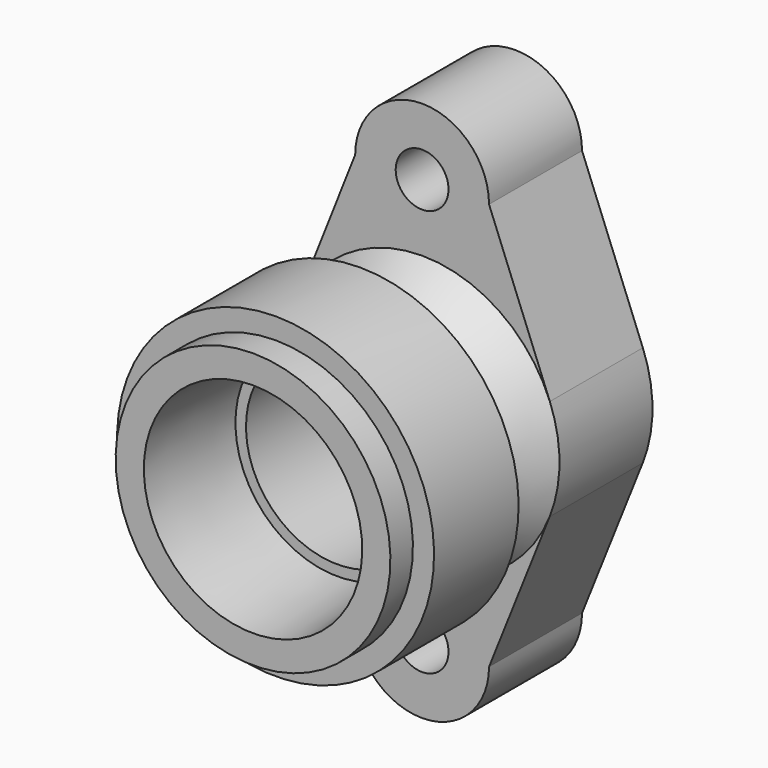
from build123d import *

# Parameters (mm, degrees)
F2_R     = 7.5
F3_DEPTH = 33
F4_R     = 32
F5_DEPTH = 35.3


with BuildPart() as f1:
    # F0 (on Right) → F1 (revolve)
    with BuildSketch(Plane.YZ):
        with BuildLine():
            Line((0, 39), (0, 31))
            Line((0, 31), (30, 29))
            Line((30, 29), (30, 26))
            Line((30, 26), (72, 26))
            Line((72, 26), (72, 0))
            Line((72, 0), (90, 0))
            Line((90, 0), (90, 32))
            Line((90, 32), (93, 32))
            Line((93, 32), (93, 39))
            Line((93, 39), (60, 39))
            Line((60, 39), (45.8678821818, 29.1045845728))
            ThreePointArc((45.8678821818, 29.1045845728), (40.6912569338, 28.7652906284), (38, 33.2003447942))
            Line((38, 33.2003447942), (38, 45))
            Line((38, 45), (8, 45))
            Line((8, 45), (8, 39))
            Line((8, 39), (0, 39))
        make_face()
    revolve(axis=Axis((0, 81, 0), (0, -1, 0)))

    # F2 (on face) → F3 (join)
    with BuildSketch(Plane(origin=(0, 93, 0), x_dir=(-1, 0, 0), z_dir=(0, 1, 0))):
        with BuildLine():
            Line((36.2664732052, 14.3437415362), (19, 58))
            ThreePointArc((19, 58), (0, 77), (-19, 58))
            Line((-19, 58), (-36.2664732052, 14.3437415362))
            ThreePointArc((-36.2664732052, 14.3437415362), (0, 39), (36.2664732052, 14.3437415362))
        make_face()
        with BuildLine():
            ThreePointArc((0, 65.5), (5.3033008589, 63.3033008589), (7.5, 58))
            ThreePointArc((7.5, 58), (-5.3033008589, 52.6966991411), (0, 65.5))
        make_face(mode=Mode.SUBTRACT)
        with BuildLine():
            ThreePointArc((36.2188499541, -14.463571758), (0, -39), (-36.2188499541, -14.463571758))
            Line((-36.2188499541, -14.463571758), (-19, -57.5820319355))
            ThreePointArc((-19, -57.5820319355), (0, -76.5820319355), (19, -57.5820319355))
            Line((19, -57.5820319355), (36.2188499541, -14.463571758))
        make_face()
        with Locations((0, -57.5820319355)):
            Circle(F2_R, mode=Mode.SUBTRACT)
    extrude(amount=-F3_DEPTH)

    # F4 (on face) → F5 (cut)
    with BuildSketch(Plane(origin=(0, 90, 0), x_dir=(-1, 0, 0), z_dir=(0, 1, 0))):
        Circle(F4_R)
    extrude(amount=-F5_DEPTH, mode=Mode.SUBTRACT)


solid = f1.part
